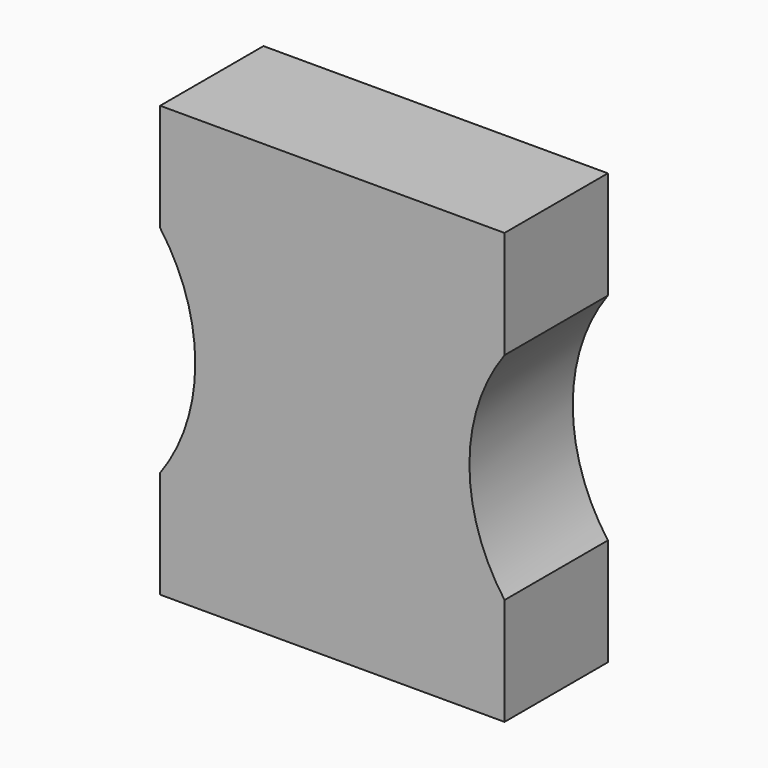
from build123d import *

# Parameters (mm, degrees)
F1_DEPTH = 15
F2_R     = 7.5
F3_DEPTH = 5


with BuildPart() as f1:
    # F0 (on Front) → F1 (new body)
    with BuildSketch(Plane.XZ):
        with BuildLine():
            Line((-20, -25), (20, -25))
            Line((20, -25), (20, -12.536835))
            ThreePointArc((20, -12.536835), (15.923849, -0.018417), (20, 12.5))
            Line((20, 12.5), (20, 25))
            Line((20, 25), (-20, 25))
            Line((-20, 25), (-20, 12.5))
            ThreePointArc((-20, 12.5), (-15.923849, -0.018417), (-20, -12.536835))
            Line((-20, -12.536835), (-20, -25))
        make_face()
    extrude(amount=F1_DEPTH)

    # F2 (on face) → F3 (cut)
    with BuildSketch(Plane(origin=(0, 0, 0), x_dir=(-1, 0, 0), z_dir=(0, 1, 0))):
        Circle(F2_R)
    extrude(amount=-F3_DEPTH, mode=Mode.SUBTRACT)


solid = f1.part
